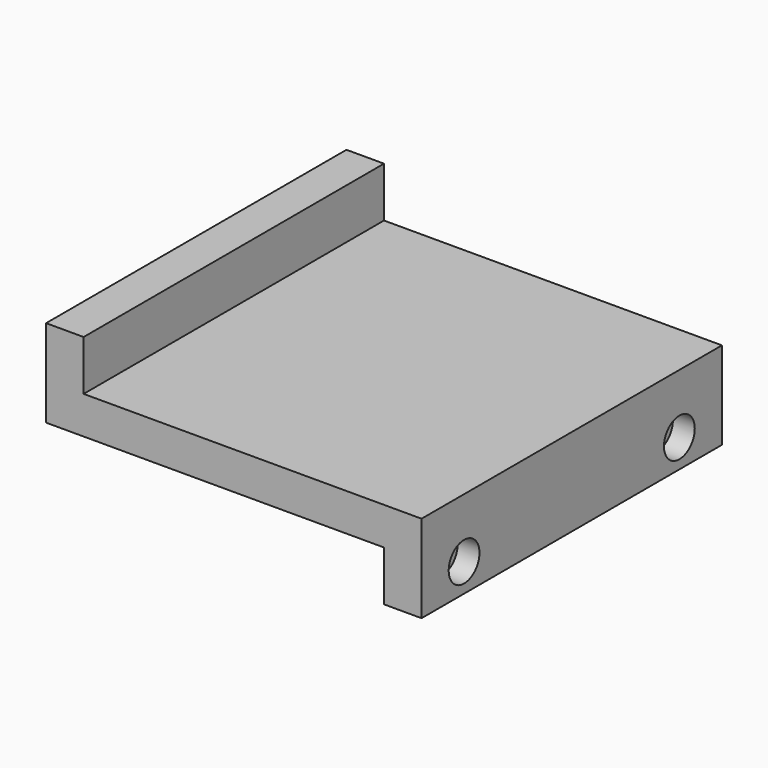
from build123d import *

# Parameters (mm, degrees)
F0_W     = 60
F0_H     = 60
F1_DEPTH = 22
F2_W     = 65.936946
F2_H     = 73.230896
F3_DEPTH = 8
F4_W     = 66.143565
F4_H     = 69.968968
F5_DEPTH = 8
F6_R     = 2
F7_DEPTH = 8
F8_R     = 3.075
F9_DEPTH = 3.5


with BuildPart() as f1:
    # F0 (on Top) → F1 (new body)
    with BuildSketch(Plane.XY):
        Rectangle(F0_W, F0_H)
    extrude(amount=F1_DEPTH)

    # F2 (on face) → F3 (cut)
    with BuildSketch(Plane.XY.offset(22)):
        with Locations((8.968473, 0)):
            Rectangle(F2_W, F2_H)
    extrude(amount=-F3_DEPTH, mode=Mode.SUBTRACT)

    # F4 (on face) → F5 (cut)
    with BuildSketch(Plane(origin=(0, 0, 0), x_dir=(1, 0, 0), z_dir=(0, 0, -1))):
        with Locations((-9.071782, 0)):
            Rectangle(F4_W, F4_H)
    extrude(amount=-F5_DEPTH, mode=Mode.SUBTRACT)

    # F6 (on face) → F7 (cut)
    with BuildSketch(Plane.YZ.offset(30)):
        with Locations((21.5, 4.5)):
            Circle(F6_R)
        with Locations((-21.5, 4.5)):
            Circle(F6_R)
    extrude(amount=-F7_DEPTH, mode=Mode.SUBTRACT)

    # F8 (on face) → F9 (cut)
    with BuildSketch(Plane.YZ.offset(30)):
        with Locations((-21.5, 4.5)):
            Circle(F8_R)
        with Locations((21.5, 4.5)):
            Circle(F8_R)
    extrude(amount=-F9_DEPTH, mode=Mode.SUBTRACT)


solid = f1.part
